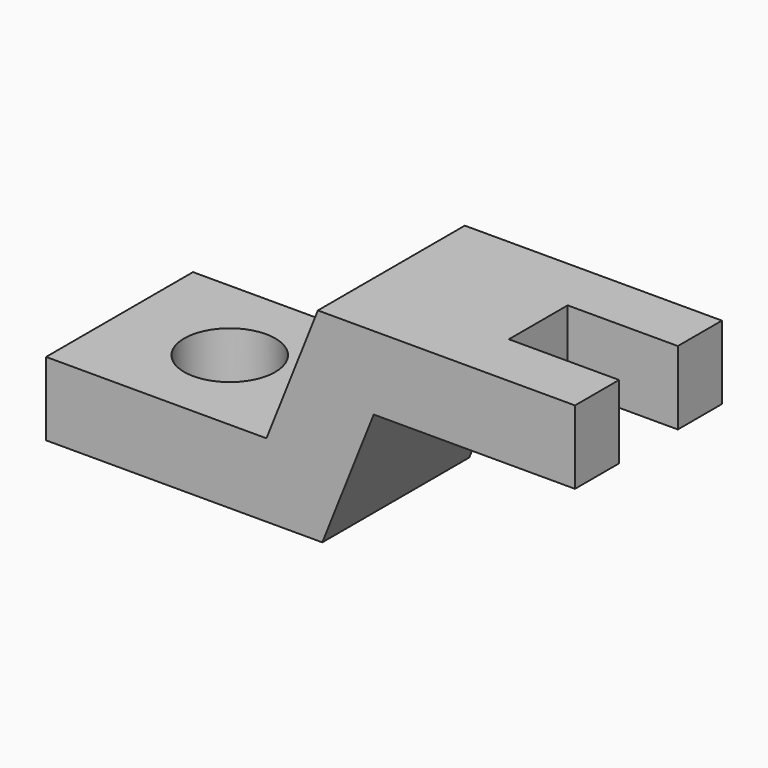
from build123d import *

# Parameters (mm, degrees)
F1_DEPTH = 31.75
F2_W     = 19.05
F2_H     = 12.7
F3_DEPTH = 35.053
F5_DEPTH = 35.053


with BuildPart() as f1:
    # F0 (on Front) → F1 (new body)
    with BuildSketch(Plane.XZ):
        Polygon((0, 12.7), (0, 0), (47.752, 0), (56.636066, 22.352), (91.434066, 22.352), (91.434066, 35.052), (46.984066, 35.052), (38.1, 12.7), align=None)
    extrude(amount=F1_DEPTH)

    # F2 (on face) → F3 (cut, through all)
    with BuildSketch(Plane.XY.offset(35.052)):
        with Locations((81.909066, -15.875)):
            Rectangle(F2_W, F2_H)
    extrude(amount=-F3_DEPTH, mode=Mode.SUBTRACT)

    # F4 (on face) → F5 (cut, through all)
    with BuildSketch(Plane(origin=(0, 0, 0), x_dir=(1, 0, 0), z_dir=(0, 0, -1))):
        with BuildLine():
            ThreePointArc((11.176, 15.875), (19.05, 8.001), (26.924, 15.875))
            ThreePointArc((26.924, 15.875), (19.05, 23.749), (11.176, 15.875))
        make_face()
    extrude(amount=-F5_DEPTH, mode=Mode.SUBTRACT)


solid = f1.part
